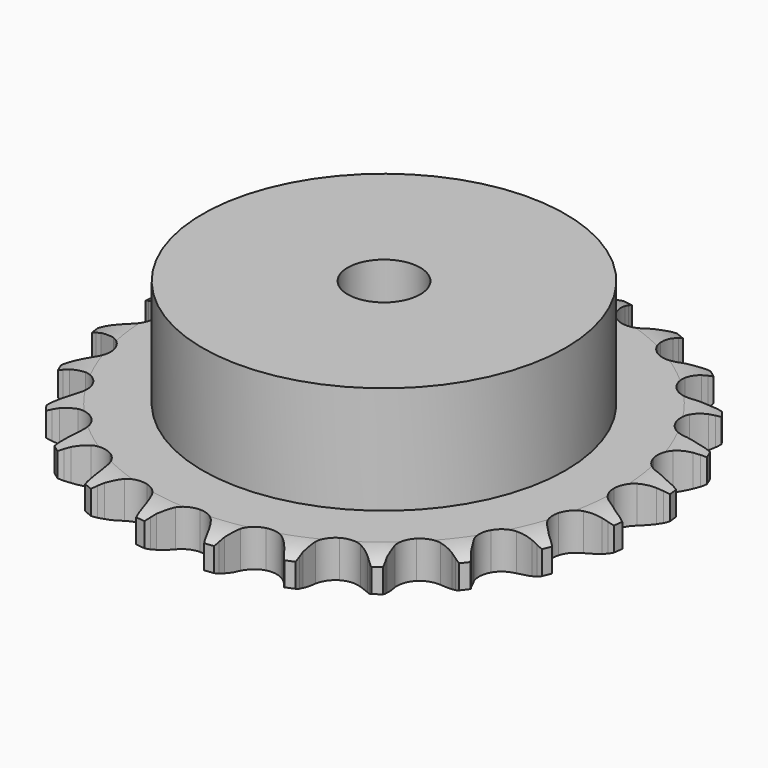
from build123d import *

# Parameters (mm, degrees)
PAD_DEPTH         = 7.2
SKETCH001_R       = 35
PAD001_DEPTH      = 28
SKETCH002_R       = 7
POCKET_DEPTH      = 0.001
POCKET_DEPTH_BACK = 28.001


with BuildPart() as part:
    # Sprocket → Pad (new body)
    with BuildSketch(Plane.XY):
        with BuildLine():
            ThreePointArc((-6.844882, 51.992044), (-5.975969, 50.915436), (-5.336613, 49.688521))
            Line((-5.336613, 49.688521), (-4.923413, 48.657188))
            ThreePointArc((-4.923413, 48.657188), (-4.2633, 47.288632), (-3.422824, 46.022815))
            ThreePointArc((-3.422824, 46.022815), (-1.908199, 44.779794), (0, 44.334865))
            ThreePointArc((0, 44.334865), (1.908199, 44.779794), (3.422824, 46.022815))
            ThreePointArc((3.422824, 46.022815), (4.2633, 47.288632), (4.923413, 48.657188))
            Line((4.923413, 48.657188), (5.336613, 49.688521))
            ThreePointArc((5.336613, 49.688521), (5.975969, 50.915436), (6.844882, 51.992044))
            ThreePointArc((6.844882, 51.992044), (7.405542, 50.727229), (7.705563, 49.376643))
            Line((7.705563, 49.376643), (7.837755, 48.273507))
            ThreePointArc((7.837755, 48.273507), (8.121167, 46.780734), (8.605387, 45.340517))
            ThreePointArc((8.605387, 45.340517), (9.746685, 43.747838), (11.474707, 42.824191))
            ThreePointArc((11.474707, 42.824191), (13.433043, 42.760081), (15.217775, 43.568733))
            Line((15.217775, 43.568733), (17.349059, 45.724961))
            ThreePointArc((17.349059, 45.724961), (17.670973, 46.177907), (18.015108, 46.614209))
            ThreePointArc((18.015108, 46.614209), (18.950227, 47.63384), (20.06818, 48.448872))
            ThreePointArc((20.06818, 48.448872), (20.282377, 47.082045), (20.222618, 45.699828))
            Line((20.222618, 45.699828), (20.064793, 44.600067))
            ThreePointArc((20.064793, 44.600067), (19.95219, 43.084807), (20.047155, 41.568338))
            ThreePointArc((20.047155, 41.568338), (20.737348, 39.734539), (22.167432, 38.395119))
            ThreePointArc((22.167432, 38.395119), (24.042446, 37.82634), (25.97566, 38.145515))
            Line((25.97566, 38.145515), (28.592395, 39.676654))
            ThreePointArc((28.592395, 39.676654), (29.020571, 40.030848), (29.465903, 40.363215))
            ThreePointArc((29.465903, 40.363215), (30.633059, 41.106077), (31.923864, 41.603989))
            ThreePointArc((31.923864, 41.603989), (31.777002, 40.228298), (31.361535, 38.908646))
            Line((31.361535, 38.908646), (30.924449, 37.887206))
            ThreePointArc((30.924449, 37.887206), (30.423504, 36.452721), (30.122742, 34.963346))
            ThreePointArc((30.122742, 34.963346), (30.314796, 33.013397), (31.349483, 31.349483))
            ThreePointArc((31.349483, 31.349483), (33.013397, 30.314796), (34.963346, 30.122742))
            Line((34.963346, 30.122742), (37.887206, 30.924449))
            ThreePointArc((37.887206, 30.924449), (38.392465, 31.155754), (38.908646, 31.361535))
            ThreePointArc((38.908646, 31.361535), (40.228298, 31.777002), (41.603989, 31.923864))
            ThreePointArc((41.603989, 31.923864), (41.106077, 30.633059), (40.363215, 29.465903))
            Line((40.363215, 29.465903), (39.676654, 28.592395))
            ThreePointArc((39.676654, 28.592395), (38.821506, 27.336442), (38.145515, 25.97566))
            ThreePointArc((38.145515, 25.97566), (37.82634, 24.042446), (38.395119, 22.167432))
            ThreePointArc((38.395119, 22.167432), (39.734539, 20.737348), (41.568338, 20.047155))
            Line((41.568338, 20.047155), (44.600067, 20.064793))
            ThreePointArc((44.600067, 20.064793), (45.147976, 20.157446), (45.699828, 20.222618))
            ThreePointArc((45.699828, 20.222618), (47.082045, 20.282377), (48.448872, 20.06818))
            ThreePointArc((48.448872, 20.06818), (47.63384, 18.950227), (46.614209, 18.015108))
            Line((46.614209, 18.015108), (45.724961, 17.349059))
            ThreePointArc((45.724961, 17.349059), (44.573888, 16.35723), (43.568733, 15.217775))
            ThreePointArc((43.568733, 15.217775), (42.760081, 13.433043), (42.824191, 11.474707))
            ThreePointArc((42.824191, 11.474707), (43.747838, 9.746685), (45.340517, 8.605387))
            Line((45.340517, 8.605387), (48.273507, 7.837755))
            ThreePointArc((48.273507, 7.837755), (48.826727, 7.785442), (49.376643, 7.705563))
            ThreePointArc((49.376643, 7.705563), (50.727229, 7.405542), (51.992044, 6.844882))
            ThreePointArc((51.992044, 6.844882), (50.915436, 5.975969), (49.688521, 5.336613))
            Line((49.688521, 5.336613), (48.657188, 4.923413))
            ThreePointArc((48.657188, 4.923413), (47.288632, 4.2633), (46.022815, 3.422824))
            ThreePointArc((46.022815, 3.422824), (44.779794, 1.908199), (44.334865, 0))
            ThreePointArc((44.334865, 0), (44.779794, -1.908199), (46.022815, -3.422824))
            Line((46.022815, -3.422824), (48.657188, -4.923413))
            ThreePointArc((48.657188, -4.923413), (49.178017, -5.117128), (49.688521, -5.336613))
            ThreePointArc((49.688521, -5.336613), (50.915436, -5.975969), (51.992044, -6.844882))
            ThreePointArc((51.992044, -6.844882), (50.727229, -7.405542), (49.376643, -7.705563))
            Line((49.376643, -7.705563), (48.273507, -7.837755))
            ThreePointArc((48.273507, -7.837755), (46.780734, -8.121167), (45.340517, -8.605387))
            ThreePointArc((45.340517, -8.605387), (43.747838, -9.746685), (42.824191, -11.474707))
            ThreePointArc((42.824191, -11.474707), (42.760081, -13.433043), (43.568733, -15.217775))
            Line((43.568733, -15.217775), (45.724961, -17.349059))
            ThreePointArc((45.724961, -17.349059), (46.177907, -17.670973), (46.614209, -18.015108))
            ThreePointArc((46.614209, -18.015108), (47.63384, -18.950227), (48.448872, -20.06818))
            ThreePointArc((48.448872, -20.06818), (47.082045, -20.282377), (45.699828, -20.222618))
            Line((45.699828, -20.222618), (44.600067, -20.064793))
            ThreePointArc((44.600067, -20.064793), (43.084807, -19.95219), (41.568338, -20.047155))
            ThreePointArc((41.568338, -20.047155), (39.734539, -20.737348), (38.395119, -22.167432))
            ThreePointArc((38.395119, -22.167432), (37.82634, -24.042446), (38.145515, -25.97566))
            Line((38.145515, -25.97566), (39.676654, -28.592395))
            ThreePointArc((39.676654, -28.592395), (40.030848, -29.020571), (40.363215, -29.465903))
            ThreePointArc((40.363215, -29.465903), (41.106077, -30.633059), (41.603989, -31.923864))
            ThreePointArc((41.603989, -31.923864), (40.228298, -31.777002), (38.908646, -31.361535))
            Line((38.908646, -31.361535), (37.887206, -30.924449))
            ThreePointArc((37.887206, -30.924449), (36.452721, -30.423504), (34.963346, -30.122742))
            ThreePointArc((34.963346, -30.122742), (33.013397, -30.314796), (31.349483, -31.349483))
            ThreePointArc((31.349483, -31.349483), (30.314796, -33.013397), (30.122742, -34.963346))
            Line((30.122742, -34.963346), (30.924449, -37.887206))
            ThreePointArc((30.924449, -37.887206), (31.155754, -38.392465), (31.361535, -38.908646))
            ThreePointArc((31.361535, -38.908646), (31.777002, -40.228298), (31.923864, -41.603989))
            ThreePointArc((31.923864, -41.603989), (30.633059, -41.106077), (29.465903, -40.363215))
            Line((29.465903, -40.363215), (28.592395, -39.676654))
            ThreePointArc((28.592395, -39.676654), (27.336442, -38.821506), (25.97566, -38.145515))
            ThreePointArc((25.97566, -38.145515), (24.042446, -37.82634), (22.167432, -38.395119))
            ThreePointArc((22.167432, -38.395119), (20.737348, -39.734539), (20.047155, -41.568338))
            Line((20.047155, -41.568338), (20.064793, -44.600067))
            ThreePointArc((20.064793, -44.600067), (20.157446, -45.147976), (20.222618, -45.699828))
            ThreePointArc((20.222618, -45.699828), (20.282377, -47.082045), (20.06818, -48.448872))
            ThreePointArc((20.06818, -48.448872), (18.950227, -47.63384), (18.015108, -46.614209))
            Line((18.015108, -46.614209), (17.349059, -45.724961))
            ThreePointArc((17.349059, -45.724961), (16.35723, -44.573888), (15.217775, -43.568733))
            ThreePointArc((15.217775, -43.568733), (13.433043, -42.760081), (11.474707, -42.824191))
            ThreePointArc((11.474707, -42.824191), (9.746685, -43.747838), (8.605387, -45.340517))
            Line((8.605387, -45.340517), (7.837755, -48.273507))
            ThreePointArc((7.837755, -48.273507), (7.785442, -48.826727), (7.705563, -49.376643))
            ThreePointArc((7.705563, -49.376643), (7.405542, -50.727229), (6.844882, -51.992044))
            ThreePointArc((6.844882, -51.992044), (5.975969, -50.915436), (5.336613, -49.688521))
            Line((5.336613, -49.688521), (4.923413, -48.657188))
            ThreePointArc((4.923413, -48.657188), (4.2633, -47.288632), (3.422824, -46.022815))
            ThreePointArc((3.422824, -46.022815), (1.908199, -44.779794), (0, -44.334865))
            ThreePointArc((0, -44.334865), (-1.908199, -44.779794), (-3.422824, -46.022815))
            Line((-3.422824, -46.022815), (-4.923413, -48.657188))
            ThreePointArc((-4.923413, -48.657188), (-5.117128, -49.178017), (-5.336613, -49.688521))
            ThreePointArc((-5.336613, -49.688521), (-5.975969, -50.915436), (-6.844882, -51.992044))
            ThreePointArc((-6.844882, -51.992044), (-7.405542, -50.727229), (-7.705563, -49.376643))
            Line((-7.705563, -49.376643), (-7.837755, -48.273507))
            ThreePointArc((-7.837755, -48.273507), (-8.121167, -46.780734), (-8.605387, -45.340517))
            ThreePointArc((-8.605387, -45.340517), (-9.746685, -43.747838), (-11.474707, -42.824191))
            ThreePointArc((-11.474707, -42.824191), (-13.433043, -42.760081), (-15.217775, -43.568733))
            Line((-15.217775, -43.568733), (-17.349059, -45.724961))
            ThreePointArc((-17.349059, -45.724961), (-17.670973, -46.177907), (-18.015108, -46.614209))
            ThreePointArc((-18.015108, -46.614209), (-18.950227, -47.63384), (-20.06818, -48.448872))
            ThreePointArc((-20.06818, -48.448872), (-20.282377, -47.082045), (-20.222618, -45.699828))
            Line((-20.222618, -45.699828), (-20.064793, -44.600067))
            ThreePointArc((-20.064793, -44.600067), (-19.95219, -43.084807), (-20.047155, -41.568338))
            ThreePointArc((-20.047155, -41.568338), (-20.737348, -39.734539), (-22.167432, -38.395119))
            ThreePointArc((-22.167432, -38.395119), (-24.042446, -37.82634), (-25.97566, -38.145515))
            Line((-25.97566, -38.145515), (-28.592395, -39.676654))
            ThreePointArc((-28.592395, -39.676654), (-29.020571, -40.030848), (-29.465903, -40.363215))
            ThreePointArc((-29.465903, -40.363215), (-30.633059, -41.106077), (-31.923864, -41.603989))
            ThreePointArc((-31.923864, -41.603989), (-31.777002, -40.228298), (-31.361535, -38.908646))
            Line((-31.361535, -38.908646), (-30.924449, -37.887206))
            ThreePointArc((-30.924449, -37.887206), (-30.423504, -36.452721), (-30.122742, -34.963346))
            ThreePointArc((-30.122742, -34.963346), (-30.314796, -33.013397), (-31.349483, -31.349483))
            ThreePointArc((-31.349483, -31.349483), (-33.013397, -30.314796), (-34.963346, -30.122742))
            Line((-34.963346, -30.122742), (-37.887206, -30.924449))
            ThreePointArc((-37.887206, -30.924449), (-38.392465, -31.155754), (-38.908646, -31.361535))
            ThreePointArc((-38.908646, -31.361535), (-40.228298, -31.777002), (-41.603989, -31.923864))
            ThreePointArc((-41.603989, -31.923864), (-41.106077, -30.633059), (-40.363215, -29.465903))
            Line((-40.363215, -29.465903), (-39.676654, -28.592395))
            ThreePointArc((-39.676654, -28.592395), (-38.821506, -27.336442), (-38.145515, -25.97566))
            ThreePointArc((-38.145515, -25.97566), (-37.82634, -24.042446), (-38.395119, -22.167432))
            ThreePointArc((-38.395119, -22.167432), (-39.734539, -20.737348), (-41.568338, -20.047155))
            Line((-41.568338, -20.047155), (-44.600067, -20.064793))
            ThreePointArc((-44.600067, -20.064793), (-45.147976, -20.157446), (-45.699828, -20.222618))
            ThreePointArc((-45.699828, -20.222618), (-47.082045, -20.282377), (-48.448872, -20.06818))
            ThreePointArc((-48.448872, -20.06818), (-47.63384, -18.950227), (-46.614209, -18.015108))
            Line((-46.614209, -18.015108), (-45.724961, -17.349059))
            ThreePointArc((-45.724961, -17.349059), (-44.573888, -16.35723), (-43.568733, -15.217775))
            ThreePointArc((-43.568733, -15.217775), (-42.760081, -13.433043), (-42.824191, -11.474707))
            ThreePointArc((-42.824191, -11.474707), (-43.747838, -9.746685), (-45.340517, -8.605387))
            Line((-45.340517, -8.605387), (-48.273507, -7.837755))
            ThreePointArc((-48.273507, -7.837755), (-48.826727, -7.785442), (-49.376643, -7.705563))
            ThreePointArc((-49.376643, -7.705563), (-50.727229, -7.405542), (-51.992044, -6.844882))
            ThreePointArc((-51.992044, -6.844882), (-50.915436, -5.975969), (-49.688521, -5.336613))
            Line((-49.688521, -5.336613), (-48.657188, -4.923413))
            ThreePointArc((-48.657188, -4.923413), (-47.288632, -4.2633), (-46.022815, -3.422824))
            ThreePointArc((-46.022815, -3.422824), (-44.779794, -1.908199), (-44.334865, 0))
            ThreePointArc((-44.334865, 0), (-44.779794, 1.908199), (-46.022815, 3.422824))
            Line((-46.022815, 3.422824), (-48.657188, 4.923413))
            ThreePointArc((-48.657188, 4.923413), (-49.178017, 5.117128), (-49.688521, 5.336613))
            ThreePointArc((-49.688521, 5.336613), (-50.915436, 5.975969), (-51.992044, 6.844882))
            ThreePointArc((-51.992044, 6.844882), (-50.727229, 7.405542), (-49.376643, 7.705563))
            Line((-49.376643, 7.705563), (-48.273507, 7.837755))
            ThreePointArc((-48.273507, 7.837755), (-46.780734, 8.121167), (-45.340517, 8.605387))
            ThreePointArc((-45.340517, 8.605387), (-43.747838, 9.746685), (-42.824191, 11.474707))
            ThreePointArc((-42.824191, 11.474707), (-42.760081, 13.433043), (-43.568733, 15.217775))
            Line((-43.568733, 15.217775), (-45.724961, 17.349059))
            ThreePointArc((-45.724961, 17.349059), (-46.177907, 17.670973), (-46.614209, 18.015108))
            ThreePointArc((-46.614209, 18.015108), (-47.63384, 18.950227), (-48.448872, 20.06818))
            ThreePointArc((-48.448872, 20.06818), (-47.082045, 20.282377), (-45.699828, 20.222618))
            Line((-45.699828, 20.222618), (-44.600067, 20.064793))
            ThreePointArc((-44.600067, 20.064793), (-43.084807, 19.95219), (-41.568338, 20.047155))
            ThreePointArc((-41.568338, 20.047155), (-39.734539, 20.737348), (-38.395119, 22.167432))
            ThreePointArc((-38.395119, 22.167432), (-37.82634, 24.042446), (-38.145515, 25.97566))
            Line((-38.145515, 25.97566), (-39.676654, 28.592395))
            ThreePointArc((-39.676654, 28.592395), (-40.030848, 29.020571), (-40.363215, 29.465903))
            ThreePointArc((-40.363215, 29.465903), (-41.106077, 30.633059), (-41.603989, 31.923864))
            ThreePointArc((-41.603989, 31.923864), (-40.228298, 31.777002), (-38.908646, 31.361535))
            Line((-38.908646, 31.361535), (-37.887206, 30.924449))
            ThreePointArc((-37.887206, 30.924449), (-36.452721, 30.423504), (-34.963346, 30.122742))
            ThreePointArc((-34.963346, 30.122742), (-33.013397, 30.314796), (-31.349483, 31.349483))
            ThreePointArc((-31.349483, 31.349483), (-30.314796, 33.013397), (-30.122742, 34.963346))
            Line((-30.122742, 34.963346), (-30.924449, 37.887206))
            ThreePointArc((-30.924449, 37.887206), (-31.155754, 38.392465), (-31.361535, 38.908646))
            ThreePointArc((-31.361535, 38.908646), (-31.777002, 40.228298), (-31.923864, 41.603989))
            ThreePointArc((-31.923864, 41.603989), (-30.633059, 41.106077), (-29.465903, 40.363215))
            Line((-29.465903, 40.363215), (-28.592395, 39.676654))
            ThreePointArc((-28.592395, 39.676654), (-27.336442, 38.821506), (-25.97566, 38.145515))
            ThreePointArc((-25.97566, 38.145515), (-24.042446, 37.82634), (-22.167432, 38.395119))
            ThreePointArc((-22.167432, 38.395119), (-20.737348, 39.734539), (-20.047155, 41.568338))
            Line((-20.047155, 41.568338), (-20.064793, 44.600067))
            ThreePointArc((-20.064793, 44.600067), (-20.157446, 45.147976), (-20.222618, 45.699828))
            ThreePointArc((-20.222618, 45.699828), (-20.282377, 47.082045), (-20.06818, 48.448872))
            ThreePointArc((-20.06818, 48.448872), (-18.950227, 47.63384), (-18.015108, 46.614209))
            Line((-18.015108, 46.614209), (-17.349059, 45.724961))
            ThreePointArc((-17.349059, 45.724961), (-16.35723, 44.573888), (-15.217775, 43.568733))
            ThreePointArc((-15.217775, 43.568733), (-13.433043, 42.760081), (-11.474707, 42.824191))
            ThreePointArc((-11.474707, 42.824191), (-9.746685, 43.747838), (-8.605387, 45.340517))
            Line((-8.605387, 45.340517), (-7.837755, 48.273507))
            ThreePointArc((-7.837755, 48.273507), (-7.785442, 48.826727), (-7.705563, 49.376643))
            ThreePointArc((-7.705563, 49.376643), (-7.405542, 50.727229), (-6.844882, 51.992044))
        make_face()
    extrude(amount=PAD_DEPTH)

    # Sketch → Groove (revolve, cut)
    with BuildSketch(Plane.XZ):
        with BuildLine():
            Line((45.233431, 0), (50.9, 0))
            Line((56.566569, 0), (50.9, 0))
            Line((56.566569, 7.2), (56.566569, 0))
            Line((50.9, 7.2), (56.566569, 7.2))
            Line((45.233431, 7.2), (50.9, 7.2))
            ThreePointArc((50.9, 5.9), (48.14032, 6.870833), (45.233431, 7.2))
            Line((50.9, 1.3), (50.9, 5.9))
            ThreePointArc((45.233431, 0), (48.14032, 0.329167), (50.9, 1.3))
        make_face()
    revolve(axis=Axis((0, 0, 0), (0, 0, 1)), mode=Mode.SUBTRACT)

    # Sketch001 → Pad001 (join)
    with BuildSketch(Plane.XY):
        Circle(SKETCH001_R)
    extrude(amount=PAD001_DEPTH)

    # Sketch002 → Pocket (cut, two sides)
    with BuildSketch(Plane.XY) as pocket_sk:
        Circle(SKETCH002_R)
    extrude(amount=-POCKET_DEPTH, mode=Mode.SUBTRACT)
    extrude(pocket_sk.sketch, amount=POCKET_DEPTH_BACK, mode=Mode.SUBTRACT)


solid = part.part
